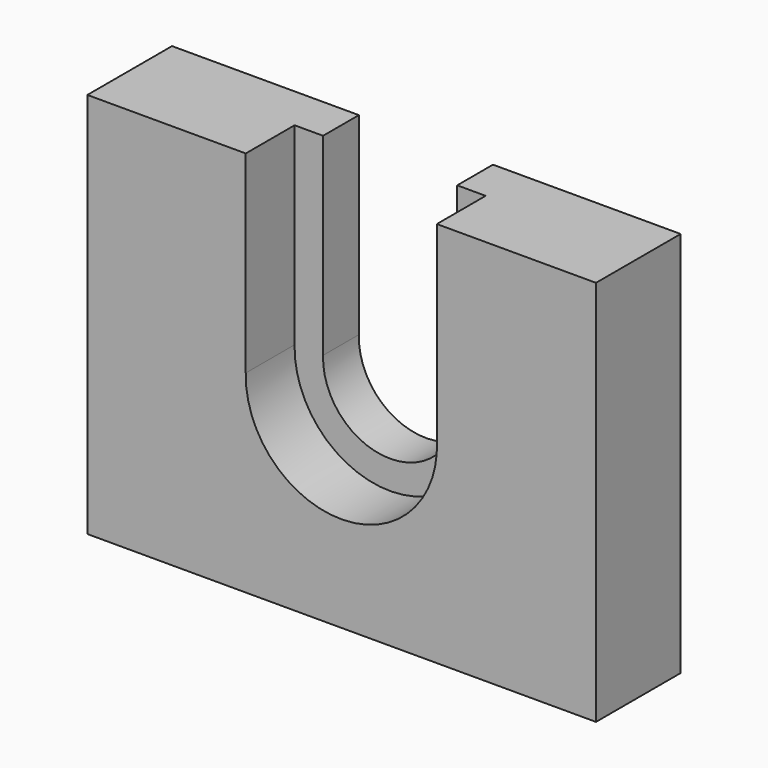
from build123d import *

# Parameters (mm, degrees)
F1_DEPTH = 2.2
F3_DEPTH = 3


with BuildPart() as f1:
    # F0 (on Front) → F1 (new body)
    with BuildSketch(Plane.XZ):
        with BuildLine():
            Line((12.5, -9.5), (12.5, 9.5))
            Line((12.5, 9.5), (3.2765988609, 9.5))
            Line((3.2765988609, 9.5), (3.2765988609, 0.1127291822))
            ThreePointArc((3.2765988609, 0.1127291822), (0.0399120355, -3.3998448003), (-3.3149907831, 0))
            Line((-3.3149907831, 0), (-3.3149907831, 9.5))
            Line((-3.3149907831, 9.5), (-12.5, 9.5))
            Line((-12.5, 9.5), (-12.5, -9.5))
            Line((-12.5, -9.5), (12.5, -9.5))
        make_face()
    extrude(amount=F1_DEPTH)

    # F2 (on face) → F3 (join)
    with BuildSketch(Plane.XZ.offset(2.2)):
        with BuildLine():
            ThreePointArc((4.6765988609, 0.1539773139), (0.0605272986, -4.799695782), (-4.7154452944, 0))
            Line((-4.7154452944, 0), (-4.7154452944, 9.5))
            Line((-4.7154452944, 9.5), (-12.5, 9.5))
            Line((-12.5, 9.5), (-12.5, -9.5))
            Line((-12.5, -9.5), (12.5, -9.5))
            Line((12.5, -9.5), (12.5, 9.5))
            Line((12.5, 9.5), (4.6765988609, 9.5))
            Line((4.6765988609, 9.5), (4.6765988609, 0.1539773139))
        make_face()
    extrude(amount=F3_DEPTH)


solid = f1.part
